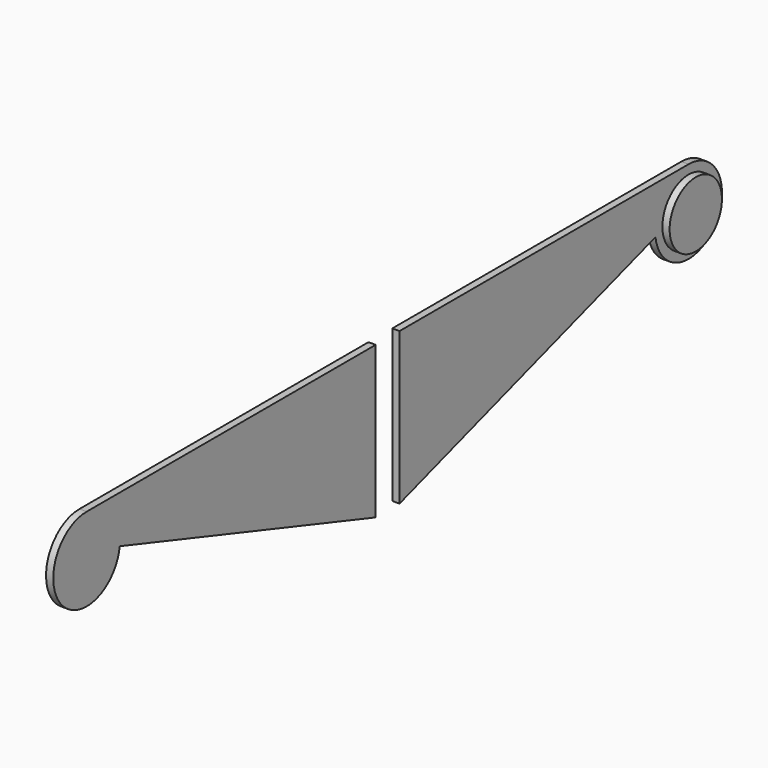
from build123d import *

# Parameters (mm, degrees)
F1_DEPTH = 0.508
F2_R     = 2.29805
F3_DEPTH = 0.508


with BuildPart() as f1:
    # F0 (on Right) → F1 (new body)
    with BuildSketch(Plane.YZ):
        with BuildLine():
            Line((11.989822, 5.152858), (-13.410178, 5.152858))
            Line((-13.410178, 5.152858), (-13.410178, -5.529385))
            Line((-13.410178, -5.529385), (9.081878, 1.829493))
            ThreePointArc((9.081878, 1.829493), (14.197812, 0.28696), (11.989822, 5.152858))
        make_face()
        with BuildLine():
            Line((-15.505383, -5.529385), (-15.505383, 5.152858))
            Line((-15.505383, 5.152858), (-40.905383, 5.152858))
            ThreePointArc((-40.905383, 5.152858), (-43.113374, 0.28696), (-37.99744, 1.829493))
            Line((-37.99744, 1.829493), (-15.505383, -5.529385))
        make_face()
    extrude(amount=F1_DEPTH)


with BuildPart() as f3:
    # F2 (on face) → F3 (new body)
    with BuildSketch(Plane.YZ.offset(0.508)):
        with Locations((11.989822, 2.218951)):
            Circle(F2_R)
    extrude(amount=F3_DEPTH)


solid = Compound([f1.part, f3.part])
